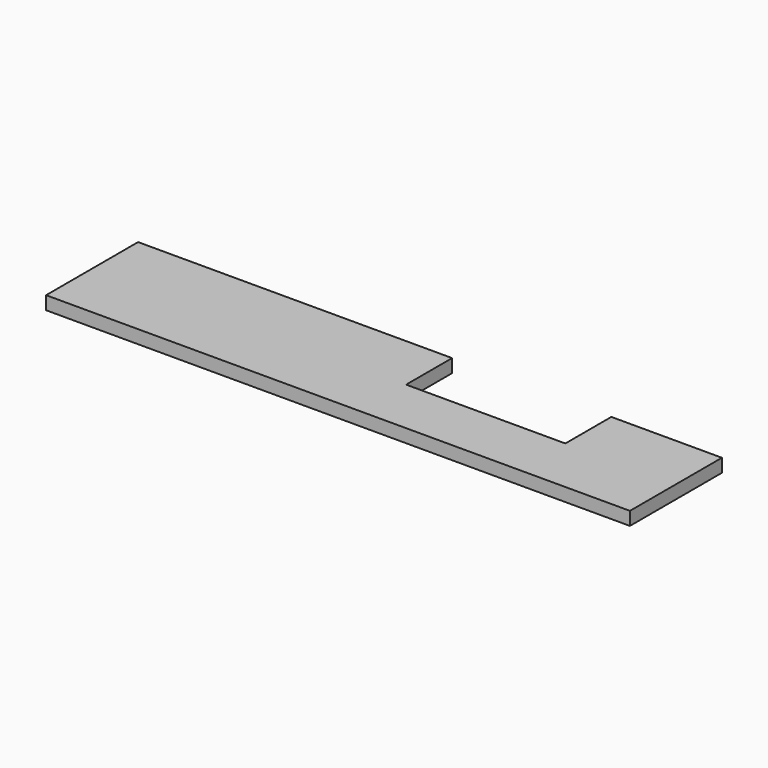
from build123d import *

# Parameters (mm, degrees)
BOX004_W     = 36
BOX004_H     = 13
BOX004_DEPTH = 3
BOX005_W     = 25
BOX005_H     = 26
BOX005_DEPTH = 3
BOX003_W     = 71
BOX003_H     = 26
BOX003_DEPTH = 3


with BuildPart() as cube004:
    # Box004 → Box004 (new body)
    with BuildSketch(Plane(origin=(-12, 38, -107), x_dir=(1, 0, 0), z_dir=(0, 0, 1))):
        with Locations((18, 6.5)):
            Rectangle(BOX004_W, BOX004_H)
    extrude(amount=BOX004_DEPTH)


with BuildPart() as cube005:
    # Box005 → Box005 (new body)
    with BuildSketch(Plane(origin=(24, 38, -107), x_dir=(1, 0, 0), z_dir=(0, 0, 1))):
        with Locations((12.5, 13)):
            Rectangle(BOX005_W, BOX005_H)
    extrude(amount=BOX005_DEPTH)


with BuildPart() as fusion:
    # Box003 → Box003 (new body)
    with BuildSketch(Plane(origin=(-83, 38, -107), x_dir=(1, 0, 0), z_dir=(0, 0, 1))):
        with Locations((35.5, 13)):
            Rectangle(BOX003_W, BOX003_H)
    extrude(amount=BOX003_DEPTH)

    # Fusion: union Cube004, Cube005
    add(cube004.part)
    add(cube005.part)


solid = fusion.part
